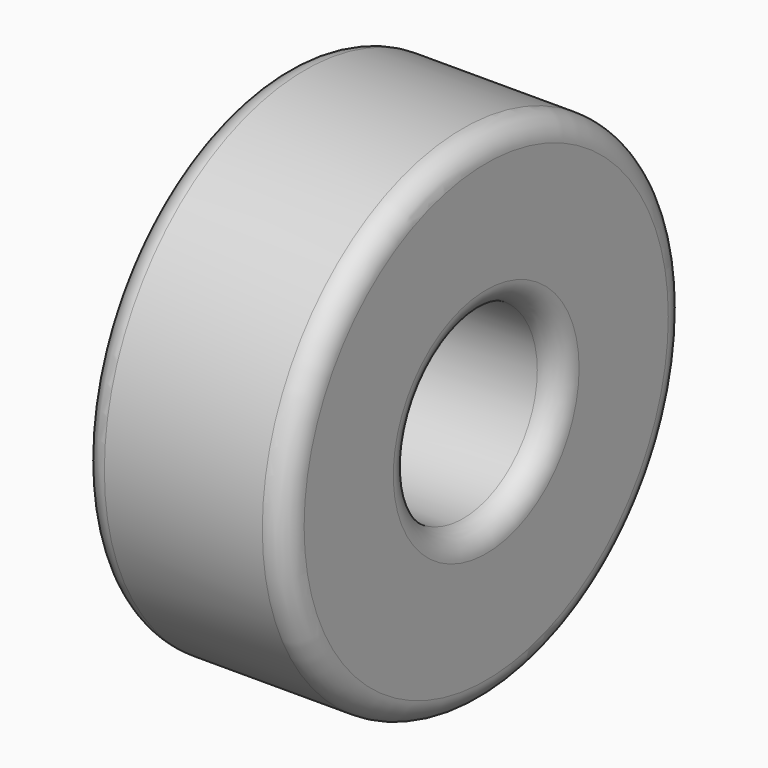
from build123d import *

# Parameters (mm, degrees)
F0_W = 44
F0_H = 34
F2_R = 5


with BuildPart() as f1:
    # F0 (on Top) → F1 (revolve)
    with BuildSketch(Plane.XY):
        with Locations((15.19079, 37)):
            Rectangle(F0_W, F0_H)
    revolve(axis=Axis((-4.243421, 0, 0), (1, 0, 0)))

    # F2
    f2_edges = [f1.edges().sort_by_distance(p)[0] for p in [
        (-6.80921, -54, 0),
        (-6.80921, -20, 0),
        (37.19079, -20, 0),
        (37.19079, -54, 0),
    ]]
    fillet(f2_edges, radius=F2_R)


solid = f1.part
